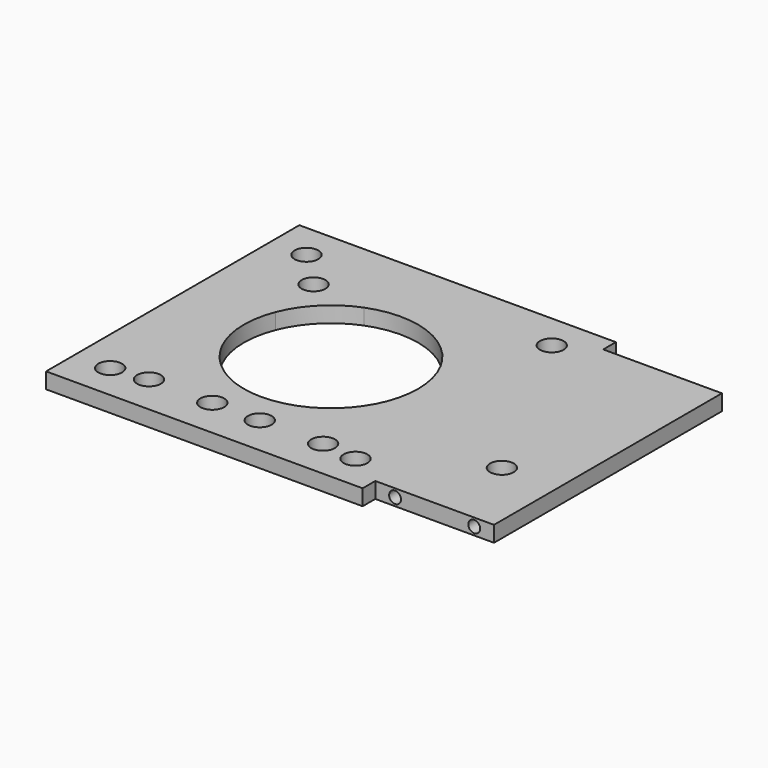
from build123d import *

# Parameters (mm, degrees)
F0_W     = 40
F0_H     = 40
F1_DEPTH = 2
F2_W     = 36
F2_H     = 2
F3_DEPTH = 15
F5_D     = 3
F5_DEPTH = 18
F4_R     = 7
F6_DEPTH = 25
F8_D     = 1.5
F8_DEPTH = 50


with BuildPart() as f1:
    # F0 (on Top) → F1 (new body)
    with BuildSketch(Plane.XY):
        Rectangle(F0_W, F0_H)
    extrude(amount=F1_DEPTH)

    # F2 (on face) → F3 (join)
    with BuildSketch(Plane.YZ.offset(20)):
        with Locations((0, 1)):
            Rectangle(F2_W, F2_H)
    extrude(amount=F3_DEPTH)

    # F5
    with Locations(Plane.XY.offset(2)):
        with Locations((-11, -15), (11, -15), (28, -8), (-11, 11), (-3, -15), (3, -15), (15.5, 15.5), (-15.5, 15.5), (-15.5, -15.5), (15.5, -15.5)):
            Hole(F5_D / 2, depth=F5_DEPTH)

    # F4 (on face) → F6 (cut)
    with BuildSketch(Plane.XY.offset(2)):
        with BuildLine():
            ThreePointArc((-4.042448, 10.230279), (-6.050253, 6.050253), (-10.230279, 4.042448))
            ThreePointArc((-10.230279, 4.042448), (-2.057538, -10.805857), (11, 0))
            ThreePointArc((11, 0), (6.185995, 9.095794), (-4.042448, 10.230279))
        make_face()
        Circle(F4_R, mode=Mode.SUBTRACT)
        Circle(F4_R)
        with BuildLine():
            ThreePointArc((-4.042448, 10.230279), (-7.778175, 7.778175), (-10.230279, 4.042448))
            ThreePointArc((-10.230279, 4.042448), (-6.050253, 6.050253), (-4.042448, 10.230279))
        make_face()
    extrude(amount=-F6_DEPTH, mode=Mode.SUBTRACT)

    # F8
    with Locations(Plane.XZ.offset(18)):
        with Locations((22.5, 1), (32.5, 1)):
            Hole(F8_D / 2, depth=F8_DEPTH)


solid = f1.part
